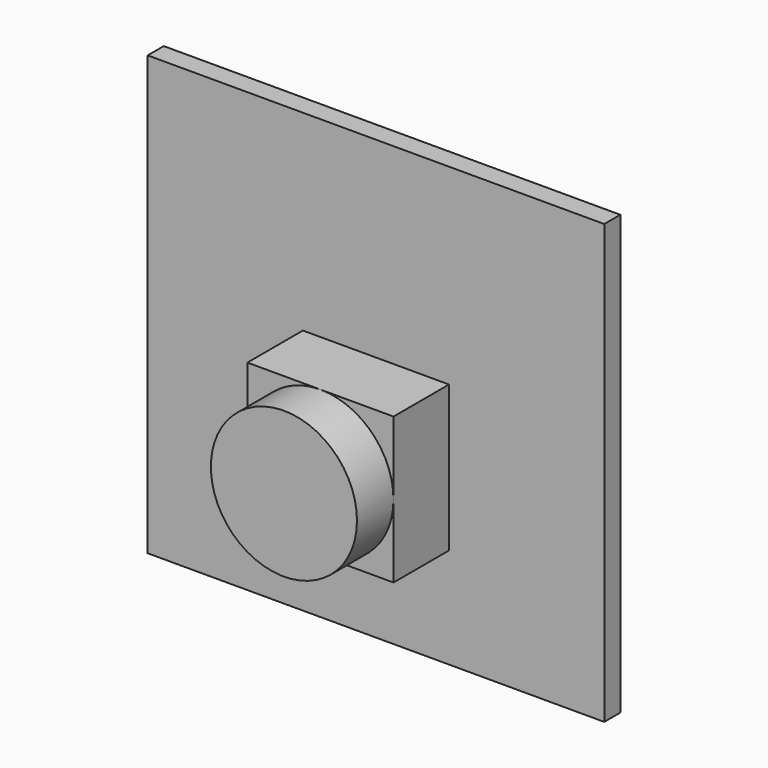
from build123d import *

# Parameters (mm, degrees)
F0_W     = 25
F0_H     = 24
F1_DEPTH = 1.1
F2_W     = 8
F2_H     = 8
F3_DEPTH = 3.8
F4_R     = 4
F5_DEPTH = 2.5


with BuildPart() as f1:
    # F0 (on Front) → F1 (new body)
    with BuildSketch(Plane.XZ):
        with Locations((12.5, -12)):
            Rectangle(F0_W, F0_H)
    extrude(amount=F1_DEPTH)

    # F2 (on face) → F3 (join)
    with BuildSketch(Plane.XZ.offset(1.1)):
        with Locations((12.5, -14.5)):
            Rectangle(F2_W, F2_H)
    extrude(amount=F3_DEPTH)

    # F4 (on face) → F5 (join)
    with BuildSketch(Plane.XZ.offset(4.9)):
        with Locations((12.5, -14.5)):
            Circle(F4_R)
    extrude(amount=F5_DEPTH)


solid = f1.part
